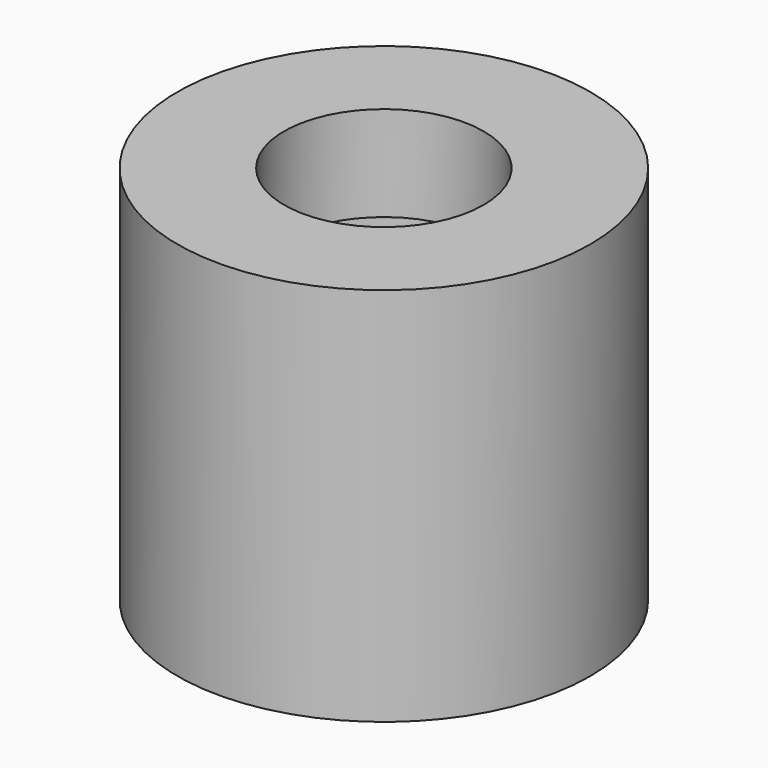
from build123d import *

# Parameters (mm, degrees)
F0_W     = 9
F0_H     = 9
F0_R     = 3.5
F0_R_2   = 2.1
F1_DEPTH = 8
F2_R     = 4
F2_R_2   = 2.1
F3_DEPTH = 6
F4_R     = 1
F5_R     = 6.9957101535
F5_R_2   = 4.3441334804
F6_DEPTH = 25


with BuildPart() as f1:
    # F0 (on Top) → F1 (new body)
    with BuildSketch(Plane.XY):
        Rectangle(F0_W, F0_H)
        Circle(F0_R, mode=Mode.SUBTRACT)
        Circle(F0_R)
        Circle(F0_R_2, mode=Mode.SUBTRACT)
    extrude(amount=F1_DEPTH)

    # F2 (on face) → F3 (cut)
    with BuildSketch(Plane(origin=(0, 0, 0), x_dir=(1, 0, 0), z_dir=(0, 0, -1))):
        Circle(F2_R)
        Circle(F2_R_2, mode=Mode.SUBTRACT)
    extrude(amount=-F3_DEPTH, mode=Mode.SUBTRACT)

    # F4
    f4_edges = [f1.edges().sort_by_distance(p)[0] for p in [
        (-4, 0, 6),
    ]]
    fillet(f4_edges, radius=F4_R)

    # F5 (on face) → F6 (cut)
    with BuildSketch(Plane(origin=(0, 0, 0), x_dir=(1, 0, 0), z_dir=(0, 0, -1))):
        Circle(F5_R)
        Circle(F5_R_2, mode=Mode.SUBTRACT)
    extrude(amount=-F6_DEPTH, mode=Mode.SUBTRACT)


solid = f1.part
